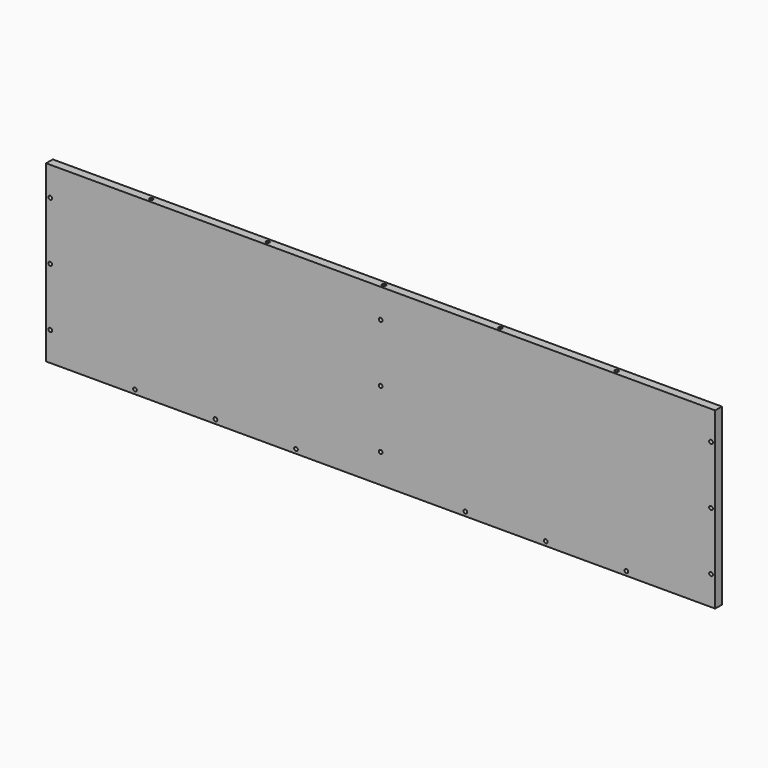
from build123d import *

# Parameters (mm, degrees)
SKETCH068_W     = 1438
SKETCH068_H     = 375
PAD026_DEPTH    = 18
SKETCH075_R     = 4
POCKET026_DEPTH = 10
SKETCH076_R     = 4
POCKET_DEPTH    = 20


with BuildPart() as part:
    # Sketch068 → Pad026 (new body)
    with BuildSketch(Plane.XZ):
        with Locations((0, 562.5)):
            Rectangle(SKETCH068_W, SKETCH068_H)
    extrude(amount=PAD026_DEPTH)

    # Sketch075 (on Face6 of Pad026) → Pocket026 (cut)
    with BuildSketch(Plane.XZ.offset(18)):
        with Locations((-710, 687.5)):
            Circle(SKETCH075_R)
        with Locations((-710, 562.5)):
            Circle(SKETCH075_R)
        with Locations((-710, 437.5)):
            Circle(SKETCH075_R)
        with Locations((0, 562.5)):
            Circle(SKETCH075_R)
        with Locations((0, 687.5)):
            Circle(SKETCH075_R)
        with Locations((0, 437.5)):
            Circle(SKETCH075_R)
        with Locations((710, 687.5)):
            Circle(SKETCH075_R)
        with Locations((710, 562.5)):
            Circle(SKETCH075_R)
        with Locations((710, 437.5)):
            Circle(SKETCH075_R)
        with Locations((182, 384)):
            Circle(SKETCH075_R)
        with Locations((355, 384)):
            Circle(SKETCH075_R)
        with Locations((528, 384)):
            Circle(SKETCH075_R)
        with Locations((-528, 384)):
            Circle(SKETCH075_R)
        with Locations((-355, 384)):
            Circle(SKETCH075_R)
        with Locations((-182, 384)):
            Circle(SKETCH075_R)
    extrude(amount=-POCKET026_DEPTH, mode=Mode.SUBTRACT)

    # Sketch076 (on Face1 of Pocket026) → Pocket (cut)
    with BuildSketch(Plane(origin=(0, 0, 750), x_dir=(-1, 0, 0), z_dir=(0, 0, 1))):
        with Locations((0, 9)):
            Circle(SKETCH076_R)
        with Locations((-250, 9)):
            Circle(SKETCH076_R)
        with Locations((-500, 9)):
            Circle(SKETCH076_R)
        with Locations((250, 9)):
            Circle(SKETCH076_R)
        with Locations((500, 9)):
            Circle(SKETCH076_R)
    extrude(amount=-POCKET_DEPTH, mode=Mode.SUBTRACT)


solid = part.part
